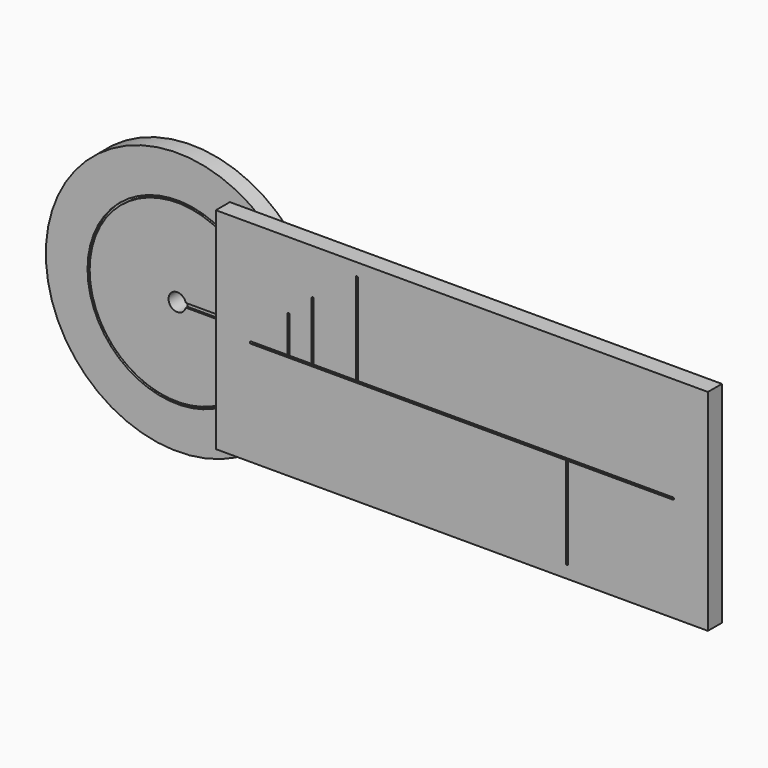
from build123d import *

# Parameters (mm, degrees)
F0_W      = 178.2512806053
F0_H      = 76.2
F1_DEPTH  = 3.175
F2_R      = 47.625
F2_R_2    = 3.175
F2_R_3    = 0.762
F3_DEPTH  = 6.35
F4_R      = 32.512
F5_DEPTH  = 0.762
F6_R      = 1.5875
F7_DEPTH  = 3.175
F8_W      = 178.2512806053
F8_H      = 76.2
F9_DEPTH  = 3.175
F11_DEPTH = 0.762


with BuildPart() as f1:
    # F0 (on Front) → F1 (new body)
    with BuildSketch(Plane.XZ):
        with Locations((76.4256403027, 0)):
            Rectangle(F0_W, F0_H)
        with BuildLine():
            Line((153.9738126205, -1.1225320151), (126.8734924691, -28.2228521665))
            ThreePointArc((126.8734924691, -28.2228521665), (114.4891081157, -33.3374617866), (102.1262320186, -28.1710798817))
            Line((102.1262320187, -28.1710798817), (48.4706107169, 25.9354289941))
            ThreePointArc((48.4706107169, 25.9354289941), (38.3555302738, 30.1624687345), (28.2228521665, 25.9777881362))
            Line((28.2228521665, 25.9777881362), (1.1225320151, -1.1225320151))
            ThreePointArc((1.1225320151, -1.1225320151), (-1.1225320151, -1.1225320151), (-1.1225320151, 1.1225320151))
            Line((-1.1225320151, 1.1225320151), (25.9777881362, 28.2228521665))
            ThreePointArc((25.9777881362, 28.2228521665), (38.3621724896, 33.3374617866), (50.7250485867, 28.1710798817))
            Line((50.7250485867, 28.1710798817), (104.3806698885, -25.9354289941))
            ThreePointArc((104.3806698885, -25.9354289941), (114.4957503315, -30.1624687345), (124.6284284389, -25.9777881362))
            Line((124.6284284389, -25.9777881362), (151.7287485902, 1.1225320151))
            ThreePointArc((151.7287485902, 1.1225320151), (153.9738126205, 1.1225320151), (153.9738126205, -1.1225320151))
        make_face(mode=Mode.SUBTRACT)
    extrude(amount=F1_DEPTH)

    # F8 (on face) → F9 (join)
    with BuildSketch(Plane.XZ.offset(3.175)):
        with Locations((76.4256403027, 0)):
            Rectangle(F8_W, F8_H)
    extrude(amount=F9_DEPTH)

    # F10 (on face) → F11 (cut)
    with BuildSketch(Plane.XZ.offset(6.35)):
        with BuildLine():
            ThreePointArc((0, 0.381), (-0.381, 0), (0, -0.381))
            Line((0, -0.381), (13.6026768014, -0.381))
            Line((13.6026768014, -0.381), (22.3400481045, -0.381))
            Line((22.3400481045, -0.381), (38.3621724896, -0.381))
            Line((38.3621724896, -0.381), (114.1081081157, -0.381))
            Line((114.1081081157, -0.381), (114.1081081157, -33.3374617866))
            ThreePointArc((114.1081081157, -33.3374617866), (114.4891081157, -33.7184617866), (114.8701081157, -33.3374617866))
            Line((114.8701081157, -33.3374617866), (114.8701081157, -0.381))
            Line((114.8701081157, -0.381), (152.8512806053, -0.381))
            ThreePointArc((152.8512806053, -0.381), (153.2322806053, 0), (152.8512806053, 0.381))
            Line((152.8512806053, 0.381), (38.7431724896, 0.381))
            Line((38.7431724896, 0.381), (38.7431724896, 33.3374617866))
            ThreePointArc((38.7431724896, 33.3374617866), (38.3621724896, 33.7184617866), (37.9811724896, 33.3374617866))
            Line((37.9811724896, 33.3374617866), (37.9811724896, 0.381))
            Line((37.9811724896, 0.381), (22.7210481045, 0.381))
            Line((22.7210481045, 0.381), (22.7210481045, 21.3924925774))
            ThreePointArc((22.7210481045, 21.3924925774), (22.3400481045, 21.7734925774), (21.9590481045, 21.3924925774))
            Line((21.9590481045, 21.3924925774), (21.9590481045, 0.381))
            Line((21.9590481045, 0.381), (13.9836768014, 0.381))
            Line((13.9836768014, 0.381), (13.9836768014, 13.5188195854))
            ThreePointArc((13.9836768014, 13.5188195854), (13.6026768014, 13.8998195854), (13.2216768014, 13.5188195854))
            Line((13.2216768014, 13.5188195854), (13.2216768014, 0.381))
            Line((13.2216768014, 0.381), (0, 0.381))
        make_face()
    extrude(amount=-F11_DEPTH, mode=Mode.SUBTRACT)


with BuildPart() as f3:
    # F2 (on Front) → F3 (new body)
    with BuildSketch(Plane.XZ):
        with Locations((-31.75, 0)):
            Circle(F2_R)
        with Locations((-31.75, 0)):
            Circle(F2_R_2, mode=Mode.SUBTRACT)
        Circle(F2_R_3, mode=Mode.SUBTRACT)
    extrude(amount=-F3_DEPTH)

    # F4 (on face) → F5 (cut)
    with BuildSketch(Plane.XZ):
        with Locations((-31.75, 0)):
            Circle(F4_R)
        with BuildLine():
            ThreePointArc((-0.0091453171, -0.762), (-63.5, 0), (-0.0091453171, 0.762))
            Line((-0.0091453171, 0.762), (-31.75, 0.762))
            ThreePointArc((-31.75, 0.762), (-32.512, 0), (-31.75, -0.762))
            Line((-31.75, -0.762), (-0.0091453171, -0.762))
        make_face(mode=Mode.SUBTRACT)
    extrude(amount=-F5_DEPTH, mode=Mode.SUBTRACT)

    # F6 (on face) → F7 (join)
    with BuildSketch(Plane.XZ):
        Circle(F6_R)
    extrude(amount=F7_DEPTH)


solid = Compound([f1.part, f3.part])
